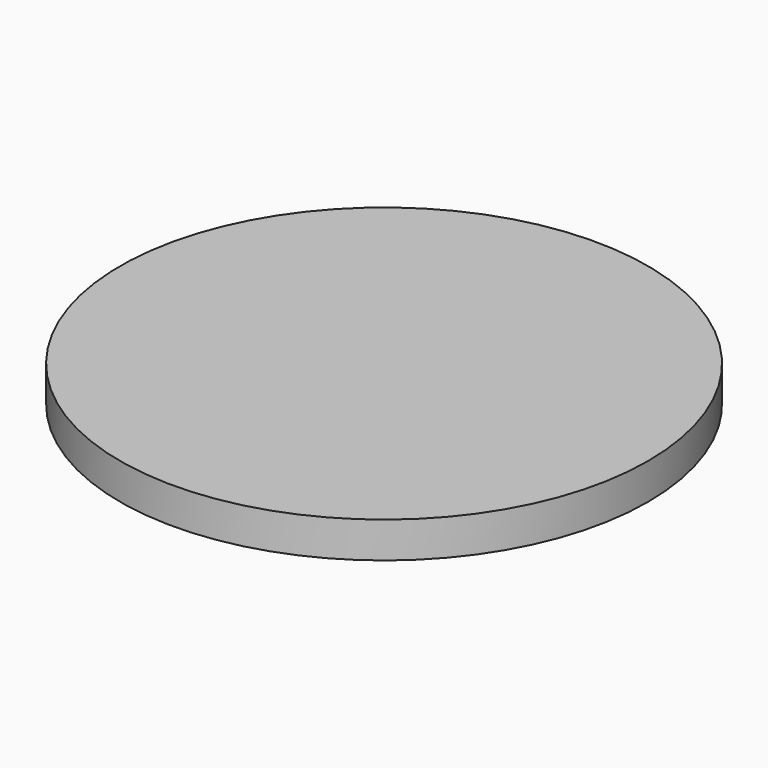
from build123d import *

# Parameters (mm, degrees)
F0_W = 19.261638
F0_H = 2.626098


with BuildPart() as f1:
    # F0 (on Front) → F1 (revolve)
    with BuildSketch(Plane.XZ):
        with Locations((11.864158, 1.313049)):
            Rectangle(F0_W, F0_H)
        Polygon((21.092495, 0.527442), (2.693319, 0.498693), (2.693319, 2.223616), (21.092495, 2.223616), align=None, mode=Mode.SUBTRACT)
    revolve(axis=Axis((2.233339, 0, 1.313049), (0, 0, 1)))


solid = f1.part
